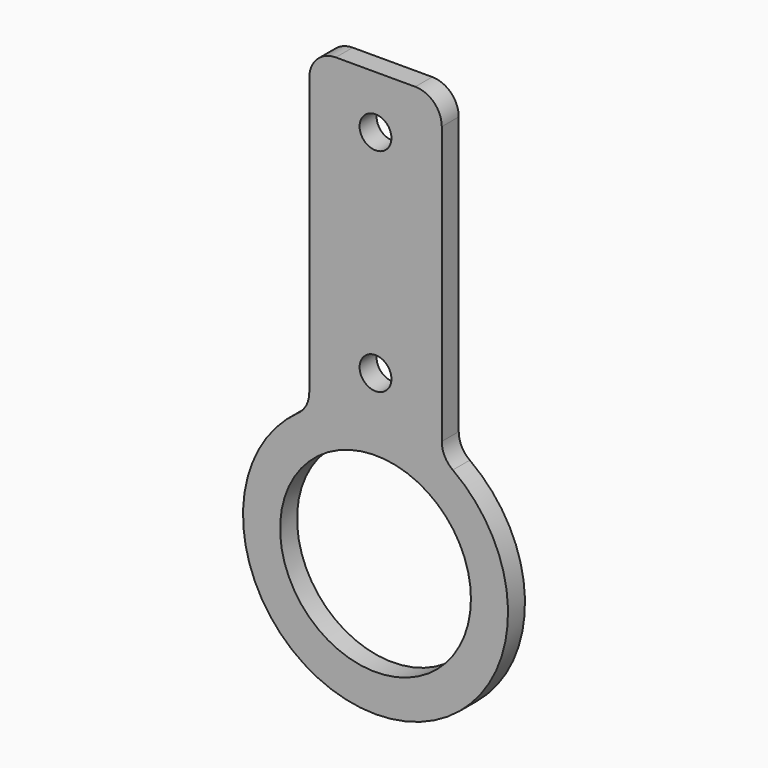
from build123d import *

# Parameters (mm, degrees)
F0_R     = 18
F1_DEPTH = 4
F2_R     = 5
F3_D     = 6


with BuildPart() as f1:
    # F0 (on Front) → F1 (new body)
    with BuildSketch(Plane.XZ):
        with BuildLine():
            Line((-12.5, 81.6506350946), (-12.5, 21.6506350946))
            ThreePointArc((-12.5, 21.6506350946), (0, -25), (12.5, 21.6506350946))
            Line((12.5, 21.6506350946), (12.5, 81.6506350946))
            Line((12.5, 81.6506350946), (-12.5, 81.6506350946))
        make_face()
        Circle(F0_R, mode=Mode.SUBTRACT)
    extrude(amount=F1_DEPTH)

    # F2
    f2_edges = [f1.edges().sort_by_distance(p)[0] for p in [
        (12.5, -2, 81.650635),
        (12.5, -2, 21.650635),
        (-12.5, -2, 21.650635),
        (-12.5, -2, 81.650635),
    ]]
    fillet(f2_edges, radius=F2_R)

    # F3 (through all)
    with Locations(Plane(origin=(0, 0, 0), x_dir=(1, 0, 0), z_dir=(0, 1, 0))):
        with Locations((0, -31.6506350946), (0, -71.6506350946)):
            Hole(F3_D / 2)


solid = f1.part
